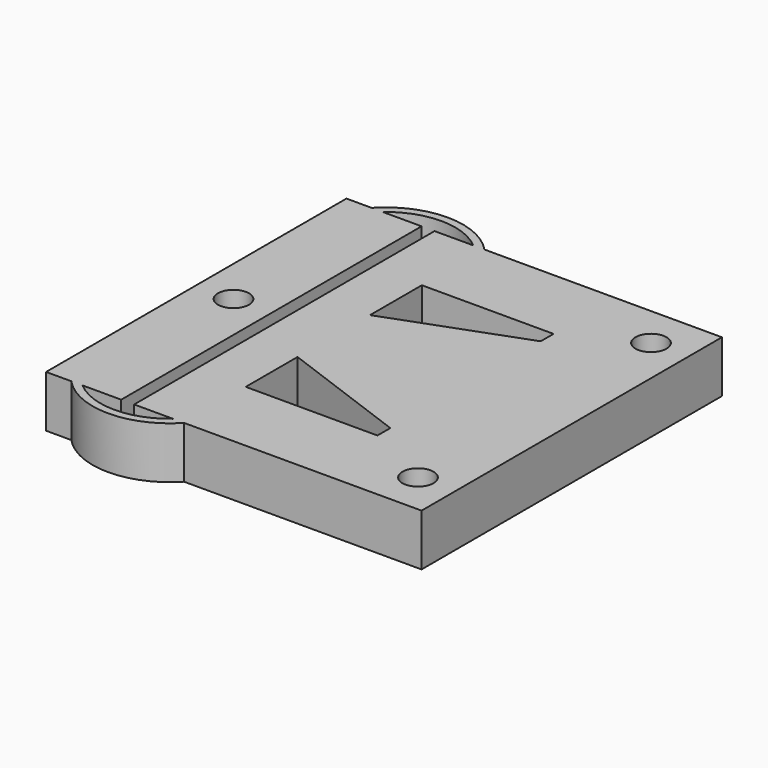
from build123d import *

# Parameters (mm, degrees)
F0_R     = 2.4
F1_DEPTH = 8
F2_R     = 1.95
F3_DEPTH = 45


with BuildPart() as f1:
    # F0 (on Top) → F1 (new body)
    with BuildSketch(Plane.XY):
        Polygon((-23.376724, 29), (-25.110264, 29), (-29, 29), (-29, -29), (-25.110264, -29), (-23.376724, -29), (-17.395352, -29), (-17.395352, 29), align=None)
        with Locations((-23.25, 0)):
            Circle(F0_R, mode=Mode.SUBTRACT)
        Polygon((29, -29), (29, 29), (-7.680439, 29), (-9.41398, 29), (-15.395352, 29), (-15.395352, -29), (-9.41398, -29), (-7.680439, -29), align=None)
        with Locations((23.25, -22.5)):
            Circle(F0_R, mode=Mode.SUBTRACT)
        Polygon((-7.758387, -7), (12.58724, -14.515154), (12.58724, -17), (-7.758387, -17), align=None, mode=Mode.SUBTRACT)
        Polygon((-7.758387, 7), (-7.758387, 17), (12.58724, 17), (12.58724, 14.515154), align=None, mode=Mode.SUBTRACT)
        with Locations((23.25, 22.5)):
            Circle(F0_R, mode=Mode.SUBTRACT)
        with BuildLine():
            ThreePointArc((-25.110264, -29), (-16.395352, -32.779395), (-7.680439, -29))
            Line((-7.680439, -29), (-9.41398, -29))
            ThreePointArc((-9.41398, -29), (-16.395352, -31.579395), (-23.376724, -29))
            Line((-23.376724, -29), (-25.110264, -29))
        make_face()
        with BuildLine():
            Line((-9.41398, 29), (-7.680439, 29))
            ThreePointArc((-7.680439, 29), (-16.395352, 32.779395), (-25.110264, 29))
            Line((-25.110264, 29), (-23.376724, 29))
            ThreePointArc((-23.376724, 29), (-16.395352, 31.579395), (-9.41398, 29))
        make_face()
    extrude(amount=F1_DEPTH)

    # F2 (on face) → F3 (cut)
    with BuildSketch(Plane(origin=(-29, 0, 0), x_dir=(0, -1, 0), z_dir=(-1, 0, 0))):
        with Locations((24.05, 4)):
            Circle(F2_R)
        with Locations((-24.05, 4)):
            Circle(F2_R)
    extrude(amount=-F3_DEPTH, mode=Mode.SUBTRACT)


solid = f1.part
